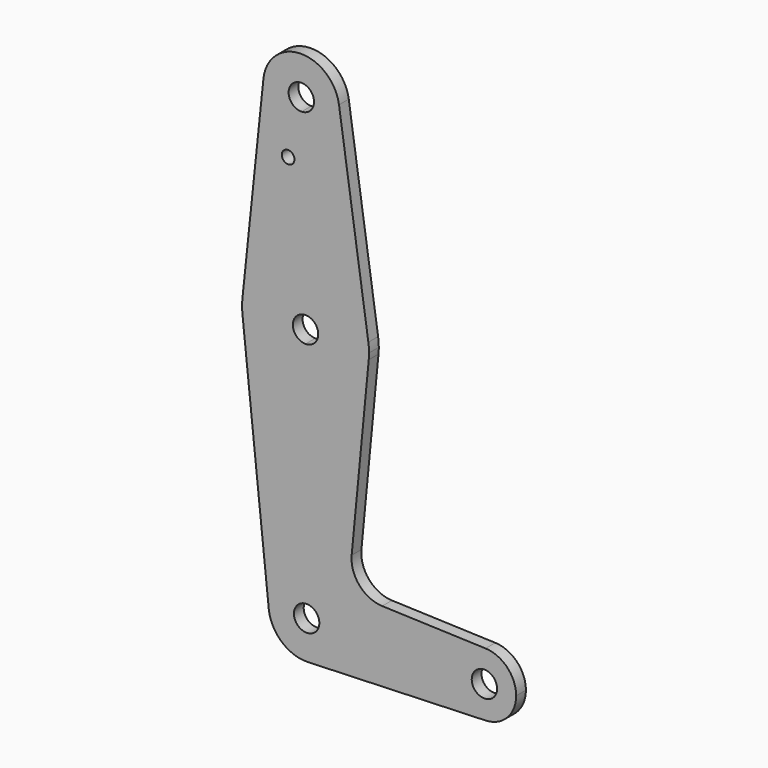
from build123d import *

# Parameters (mm, degrees)
F0_R     = 1.5875
F1_DEPTH = 3.048


with BuildPart() as f1:
    # F0 (on Front) → F1 (new body)
    with BuildSketch(Plane.XZ):
        with BuildLine():
            Line((9.525, 0), (3.175, 0))
            ThreePointArc((3.175, 0), (-2.24016408, -2.2499533094), (-0.0138440281, 3.1749698176))
            Line((-0.0138440281, 3.1749698176), (-0.0415320843, 9.5249094529))
            ThreePointArc((-0.0415320843, 9.5249094529), (-7.0917224765, 6.3587024868), (-9.4730120368, -0.9938148474))
            ThreePointArc((-9.4730120368, -0.9938148474), (-6.2467216295, -7.1905558814), (0.3401785307, -9.5189234458))
            ThreePointArc((0.3401785307, -9.5189234458), (6.8544082715, -6.6138273524), (9.525, 0))
        make_face()
        with BuildLine():
            ThreePointArc((-0.0138440281, 3.1749698176), (2.24016408, 2.2499533094), (3.175, 0))
            Line((3.175, 0), (9.525, 0))
            ThreePointArc((9.525, 0), (6.7204922401, 6.7498599283), (-0.0415320843, 9.5249094529))
            Line((-0.0415320843, 9.5249094529), (-0.0138440281, 3.1749698176))
        make_face()
        with BuildLine():
            Line((36.5125, 0), (9.525, 0))
            ThreePointArc((9.525, 0), (6.8544082715, -6.6138273524), (0.3401785307, -9.5189234458))
            Line((0.3401785307, -9.5189234458), (44.7324052746, -7.9324746878))
            ThreePointArc((44.7324052719, -7.9324746147), (38.9380895143, -5.711632783), (36.5125, 0))
        make_face()
        with BuildLine():
            ThreePointArc((-0.0415320843, 9.5249094529), (6.7204922401, 6.7498599283), (9.525, 0))
            Line((9.525, 0), (36.5125, 0))
            ThreePointArc((36.5125, 0), (38.9380895153, 5.7116327839), (44.7324052746, 7.9324746146))
            Line((44.7324052746, 7.9324746146), (18.8871400152, 8.8525959621))
            ThreePointArc((18.8871400152, 8.8525959621), (13.1914269909, 11.5573065412), (11.2562566689, 17.5582832948))
            Line((11.2562566689, 17.5582832948), (15.5253168609, 61.980784614))
            ThreePointArc((15.5253168609, 61.980784614), (10.4236269764, 51.7727274555), (-0.2076604214, 47.6245472645))
            Line((-0.2076604214, 47.6245472645), (-0.0415320843, 9.5249094529))
        make_face()
        with BuildLine():
            ThreePointArc((-9.4730120368, -0.9938148474), (-7.0917224765, 6.3587024868), (-0.0415320843, 9.5249094529))
            Line((-0.0415320843, 9.5249094529), (-0.2076604214, 47.6245472645))
            ThreePointArc((-0.2076604214, 47.6245472645), (-10.8747180398, 51.6798588918), (-16.0652339565, 61.8430382737))
            Line((-16.0652339565, 61.8430382737), (-9.4730120368, -0.9938148474))
        make_face()
        with BuildLine():
            ThreePointArc((44.7324052746, 7.9324746146), (38.9380895153, 5.7116327839), (36.5125, 0))
            ThreePointArc((36.5125, 0), (38.9380895143, -5.711632783), (44.7324052719, -7.9324746147))
            ThreePointArc((44.7324052719, -7.9324746147), (50.161632783, -5.5119104857), (52.3875, 0))
            ThreePointArc((52.3875, 0), (50.1616327839, 5.5119104847), (44.7324052746, 7.9324746146))
        make_face()
        with BuildLine():
            ThreePointArc((47.625, 0), (44.45, -3.175), (41.275, 0))
            ThreePointArc((41.275, 0), (44.45, 3.175), (47.625, 0))
        make_face(mode=Mode.SUBTRACT)
        with BuildLine():
            ThreePointArc((-16.0652339565, 61.8430382737), (-10.8747180398, 51.6798588918), (-0.2076604214, 47.6245472645))
            Line((-0.2076604214, 47.6245472645), (-0.2630365337, 60.324426535))
            ThreePointArc((-0.2630365337, 60.324426535), (-3.4516294947, 63.459468753), (-0.3428890381, 66.6737101181))
            Line((-0.3428890381, 66.6737101181), (-0.6069229434, 79.3709651796))
            ThreePointArc((-0.6069229434, 79.3709651796), (-11.0225180372, 75.1847247712), (-16.0652339565, 65.1557544316))
            ThreePointArc((-16.0652339565, 65.1557544316), (-16.1518805618, 63.4993963527), (-16.0652339565, 61.8430382737))
        make_face()
        with BuildLine():
            Line((-0.2630365337, 60.324426535), (-0.2076604214, 47.6245472645))
            ThreePointArc((-0.2076604214, 47.6245472645), (10.4236269764, 51.7727274555), (15.5253168609, 61.980784614))
            ThreePointArc((15.5253168609, 61.980784614), (15.5799083484, 62.7392184412), (15.5981194382, 63.4993963527))
            ThreePointArc((15.5981194382, 63.4993963527), (15.5557984619, 64.6578003982), (15.429061179, 65.8100280921))
            ThreePointArc((15.429061179, 65.8100280921), (9.9739400857, 75.6211248207), (-0.6069229434, 79.3709651796))
            Line((-0.6069229434, 79.3709651796), (-0.3428890381, 66.6737101181))
            ThreePointArc((-0.3428890381, 66.6737101181), (1.9447233732, 65.7676778511), (2.8981194382, 63.4993963527))
            ThreePointArc((2.8981194382, 63.4993963527), (1.9730727476, 61.2592322727), (-0.2630365337, 60.324426535))
        make_face()
        with BuildLine():
            Line((-1.1352311838, 104.7770374504), (-0.6069229434, 79.3709651796))
            ThreePointArc((-0.6069229434, 79.3709651796), (9.9739400857, 75.6211248207), (15.429061179, 65.8100280921))
            Line((15.429061179, 65.8100280921), (8.0913330686, 115.6863796243))
            ThreePointArc((8.0913330686, 115.6863796243), (8.1673755023, 114.99504272), (8.1927681095, 114.3))
            ThreePointArc((8.1927681095, 114.3), (5.4722540097, 107.6348220853), (-1.1352311838, 104.7770374504))
        make_face()
        with BuildLine():
            Line((-10.8052439273, 115.2938148474), (-16.0652339565, 65.1557544316))
            ThreePointArc((-16.0652339565, 65.1557544316), (-11.0225180372, 75.1847247712), (-0.6069229434, 79.3709651796))
            Line((-0.6069229434, 79.3709651796), (-1.1352311838, 104.7770374504))
            ThreePointArc((-1.1352311838, 104.7770374504), (-8.3437758184, 107.8529947459), (-10.8052439273, 115.2938148474))
        make_face()
        with Locations((-4.6337228268, 100.0245963527)):
            Circle(F0_R, mode=Mode.SUBTRACT)
        with BuildLine():
            ThreePointArc((8.0913330686, 115.6863796243), (-1.5300652279, 123.8229452886), (-10.8052439273, 115.2938148474))
            ThreePointArc((-10.8052439273, 115.2938148474), (-8.3437758184, 107.8529947459), (-1.1352311838, 104.7770374504))
            ThreePointArc((-1.1352311838, 104.7770374504), (5.4722540097, 107.6348220853), (8.1927681095, 114.3))
            ThreePointArc((8.1927681095, 114.3), (8.1673755023, 114.99504272), (8.0913330686, 115.6863796243))
        make_face()
        with BuildLine():
            ThreePointArc((1.8427681095, 114.3), (0.9356909931, 112.0780299745), (-1.2672481388, 111.1256650914))
            ThreePointArc((-1.2672481388, 111.1256650914), (-3.6001547741, 116.5219700255), (1.8427681095, 114.3))
        make_face(mode=Mode.SUBTRACT)
    extrude(amount=F1_DEPTH)


solid = f1.part
